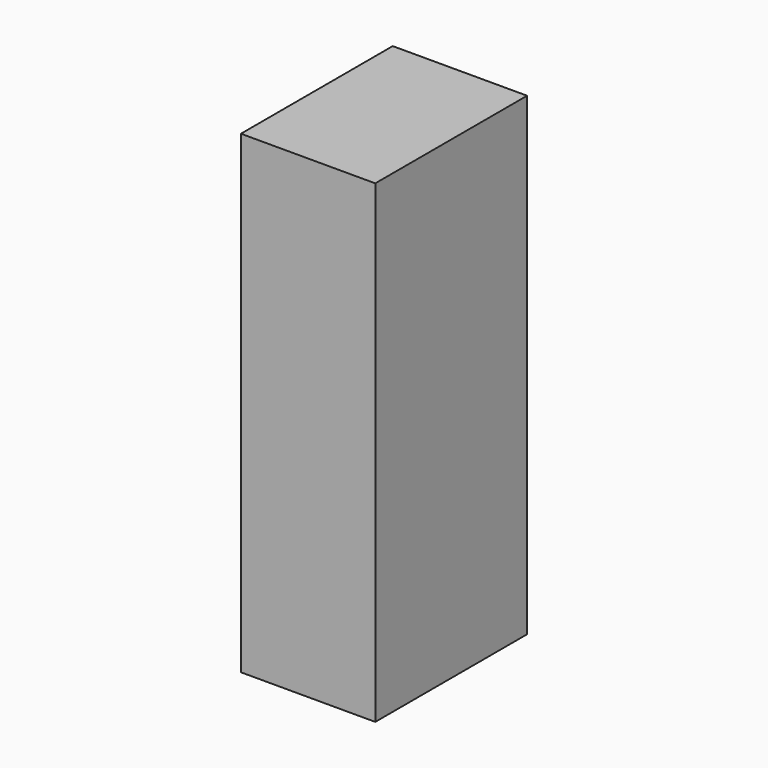
from build123d import *

# Parameters (mm, degrees)
F0_W     = 41.7591929436
F0_H     = 21.8034684658
F1_DEPTH = 58.9789152145
F2_T     = -0.1
F3_DEPTH = 147.3701298237
F4_DEPTH = 21.0949573666


with BuildPart() as f1:
    # F0 (on Front) → F1 (new body)
    with BuildSketch(Plane.XZ):
        with Locations((-20.8795964718, 38.2484644651)):
            Rectangle(F0_W, F0_H)
    extrude(amount=F1_DEPTH)

    # F2
    f2_openings = [f1.faces().sort_by_distance(p)[0] for p in [
        (-20.879596, -29.489458, 49.150199),
    ]]
    offset(amount=F2_T, openings=f2_openings)

    # F3 (add): a face of the model
    f3_faces = [f1.faces().sort_by_distance(p)[0] for p in [
        (-20.8795964718, -29.4894576073, 27.3467302322),
    ]]
    extrude(f3_faces, amount=-F3_DEPTH)

    # F4 (add): a face of the model
    f4_faces = [f1.faces().sort_by_distance(p)[0] for p in [
        (-20.8795964718, -29.4894576073, 174.7168600559),
    ]]
    extrude(f4_faces, amount=-F4_DEPTH)


solid = f1.part
